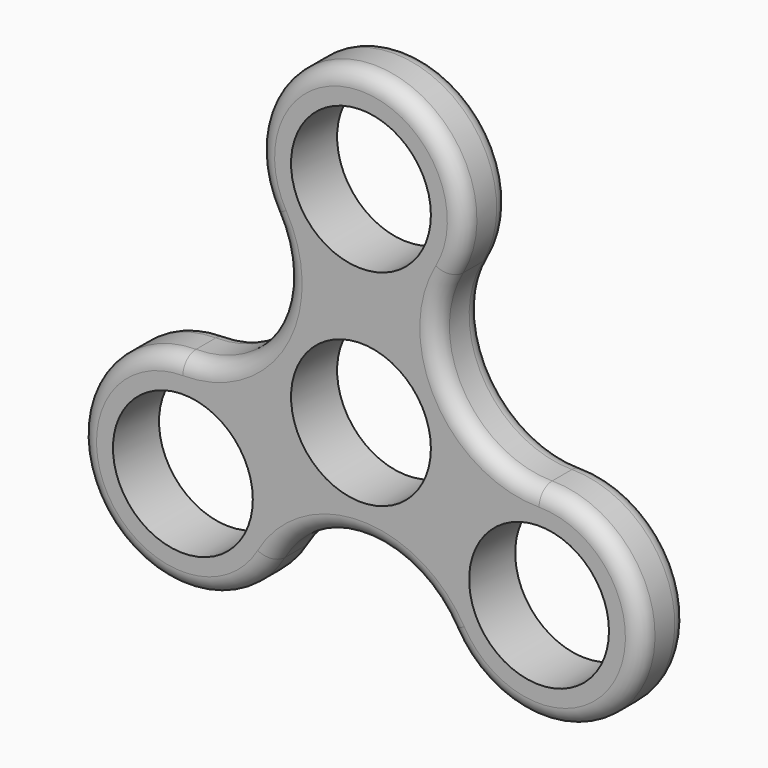
from build123d import *

# Parameters (mm, degrees)
F0_R     = 8.5
F1_DEPTH = 7
F2_R     = 2


with BuildPart() as f1:
    # F0 (on Front) → F1 (new body)
    with BuildSketch(Plane.XZ):
        with BuildLine():
            ThreePointArc((21.650635, 0), (10.825318, 6.25), (10.825318, 18.75))
            ThreePointArc((10.825318, 18.75), (0, 37.5), (-10.825318, 18.75))
            ThreePointArc((-10.825318, 18.75), (-10.825318, 6.25), (-21.650635, 0))
            ThreePointArc((-21.650635, 0), (-32.475953, -18.75), (-10.825318, -18.75))
            ThreePointArc((-10.825318, -18.75), (0, -12.5), (10.825318, -18.75))
            ThreePointArc((10.825318, -18.75), (32.475953, -18.75), (21.650635, 0))
        make_face()
        with Locations((-21.650635, -12.5)):
            Circle(F0_R, mode=Mode.SUBTRACT)
        with Locations((21.650635, -12.5)):
            Circle(F0_R, mode=Mode.SUBTRACT)
        Circle(F0_R, mode=Mode.SUBTRACT)
        with Locations((0, 25)):
            Circle(F0_R, mode=Mode.SUBTRACT)
    extrude(amount=F1_DEPTH)

    # F2
    f2_edges = [f1.edges().sort_by_distance(p)[0] for p in [
        (-10.825318, 0, 6.25),
        (-10.825318, -7, 6.25),
    ]]
    fillet(f2_edges, radius=F2_R)


solid = f1.part
